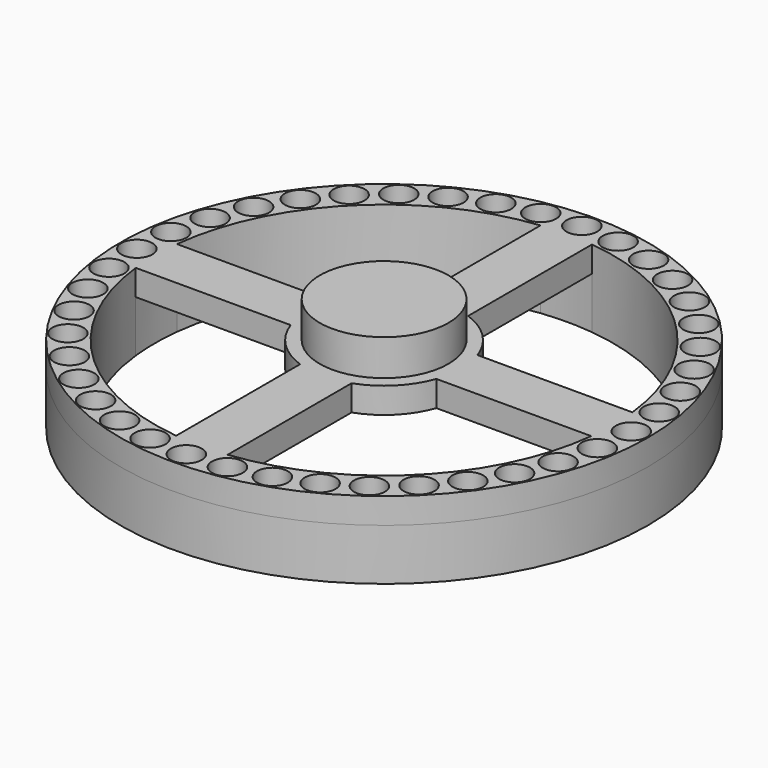
from build123d import *

# Parameters (mm, degrees)
F0_R          = 51.25
F0_R_2        = 3
F0_R_3        = 2.5
F1_DEPTH      = 10
F1_DEPTH_BACK = 5
F2_DEPTH      = 5
F3_R          = 3
F4_DEPTH      = 5
F4_DEPTH_BACK = 5
F5_R          = 12.5
F6_DEPTH      = 12
F7_R          = 10.25
F8_DEPTH      = 10


with BuildPart() as f1:
    # F0 (on Top) → F1 (new body, two sides)
    with BuildSketch(Plane.XY) as f1_sk:
        Circle(F0_R)
        with Locations((-28.21369211, -38.83281573)):
            Circle(F0_R_2, mode=Mode.SUBTRACT)
        with Locations((-38.83281573, -28.21369211)):
            Circle(F0_R_2, mode=Mode.SUBTRACT)
        with Locations((-33.941125497, -33.941125497)):
            Circle(F0_R_2, mode=Mode.SUBTRACT)
        with Locations((-14.83281573, -45.6507127822)):
            Circle(F0_R_2, mode=Mode.SUBTRACT)
        with Locations((-21.7915439875, -42.768313161)):
            Circle(F0_R_2, mode=Mode.SUBTRACT)
        with Locations((-7.5088543219, -47.4090403486)):
            Circle(F0_R_2, mode=Mode.SUBTRACT)
        with Locations((-42.768313161, -21.7915439875)):
            Circle(F0_R_2, mode=Mode.SUBTRACT)
        with Locations((-45.6507127822, -14.83281573)):
            Circle(F0_R_2, mode=Mode.SUBTRACT)
        with Locations((-47.4090403486, -7.5088543219)):
            Circle(F0_R_2, mode=Mode.SUBTRACT)
        with Locations((0, -48)):
            Circle(F0_R_2, mode=Mode.SUBTRACT)
        with Locations((7.5088543219, -47.4090403486)):
            Circle(F0_R_2, mode=Mode.SUBTRACT)
        with Locations((14.83281573, -45.6507127822)):
            Circle(F0_R_2, mode=Mode.SUBTRACT)
        with Locations((21.7915439875, -42.768313161)):
            Circle(F0_R_2, mode=Mode.SUBTRACT)
        with Locations((28.21369211, -38.83281573)):
            Circle(F0_R_2, mode=Mode.SUBTRACT)
        with Locations((33.941125497, -33.941125497)):
            Circle(F0_R_2, mode=Mode.SUBTRACT)
        with Locations((38.83281573, -28.21369211)):
            Circle(F0_R_2, mode=Mode.SUBTRACT)
        with Locations((42.768313161, -21.7915439875)):
            Circle(F0_R_2, mode=Mode.SUBTRACT)
        with Locations((45.6507127822, -14.83281573)):
            Circle(F0_R_2, mode=Mode.SUBTRACT)
        with Locations((47.4090403486, -7.5088543219)):
            Circle(F0_R_2, mode=Mode.SUBTRACT)
        with Locations((-48, 0)):
            Circle(F0_R_2, mode=Mode.SUBTRACT)
        with Locations((-47.4090403486, 7.5088543219)):
            Circle(F0_R_2, mode=Mode.SUBTRACT)
        with Locations((-45.6507127822, 14.83281573)):
            Circle(F0_R_2, mode=Mode.SUBTRACT)
        with Locations((-42.768313161, 21.7915439875)):
            Circle(F0_R_2, mode=Mode.SUBTRACT)
        with Locations((-38.83281573, 28.21369211)):
            Circle(F0_R_2, mode=Mode.SUBTRACT)
        with Locations((-33.941125497, 33.941125497)):
            Circle(F0_R_2, mode=Mode.SUBTRACT)
        with Locations((-28.21369211, 38.83281573)):
            Circle(F0_R_2, mode=Mode.SUBTRACT)
        with Locations((-21.7915439875, 42.768313161)):
            Circle(F0_R_2, mode=Mode.SUBTRACT)
        with Locations((-14.83281573, 45.6507127822)):
            Circle(F0_R_2, mode=Mode.SUBTRACT)
        with Locations((-7.5088543219, 47.4090403486)):
            Circle(F0_R_2, mode=Mode.SUBTRACT)
        with BuildLine():
            ThreePointArc((44.218208919, 5), (44.4294963785, 2.503967163), (44.5, 0))
            ThreePointArc((44.5, 0), (44.4294963785, -2.503967163), (44.218208919, -5))
            ThreePointArc((44.218208919, -5), (31.4662517628, -31.4662517628), (5, -44.218208919))
            ThreePointArc((5, -44.218208919), (0, -44.5), (-5, -44.218208919))
            ThreePointArc((-5, -44.218208919), (-31.4662517628, -31.4662517628), (-44.218208919, -5))
            ThreePointArc((-44.218208919, -5), (-44.5, 0), (-44.218208919, 5))
            ThreePointArc((-44.218208919, 5), (-31.4662517628, 31.4662517628), (-5, 44.218208919))
            ThreePointArc((-5, 44.218208919), (0, 44.5), (5, 44.218208919))
            ThreePointArc((5, 44.218208919), (31.4662517628, 31.4662517628), (44.218208919, 5))
        make_face(mode=Mode.SUBTRACT)
        with Locations((48, 0)):
            Circle(F0_R_2, mode=Mode.SUBTRACT)
        with Locations((47.4090403486, 7.5088543219)):
            Circle(F0_R_2, mode=Mode.SUBTRACT)
        with Locations((45.6507127822, 14.83281573)):
            Circle(F0_R_2, mode=Mode.SUBTRACT)
        with Locations((42.768313161, 21.7915439875)):
            Circle(F0_R_2, mode=Mode.SUBTRACT)
        with Locations((0, 48)):
            Circle(F0_R_2, mode=Mode.SUBTRACT)
        with Locations((7.5088543219, 47.4090403486)):
            Circle(F0_R_2, mode=Mode.SUBTRACT)
        with Locations((21.7915439875, 42.768313161)):
            Circle(F0_R_2, mode=Mode.SUBTRACT)
        with Locations((14.83281573, 45.6507127822)):
            Circle(F0_R_2, mode=Mode.SUBTRACT)
        with Locations((33.941125497, 33.941125497)):
            Circle(F0_R_2, mode=Mode.SUBTRACT)
        with Locations((38.83281573, 28.21369211)):
            Circle(F0_R_2, mode=Mode.SUBTRACT)
        with Locations((28.21369211, 38.83281573)):
            Circle(F0_R_2, mode=Mode.SUBTRACT)
        with Locations((0, 48)):
            Circle(F0_R_2)
        with Locations((0, 48)):
            Circle(F0_R_3, mode=Mode.SUBTRACT)
        with Locations((21.7915439875, 42.768313161)):
            Circle(F0_R_2)
        with Locations((21.7915443935, 42.7683148523)):
            Circle(F0_R_3, mode=Mode.SUBTRACT)
        with Locations((14.83281573, 45.6507127822)):
            Circle(F0_R_2)
        with Locations((14.8328159123, 45.6507139333)):
            Circle(F0_R_3, mode=Mode.SUBTRACT)
        with Locations((7.5088543219, 47.4090403486)):
            Circle(F0_R_2)
        with Locations((7.5088543678, 47.4090409313)):
            Circle(F0_R_3, mode=Mode.SUBTRACT)
        with Locations((33.941125497, 33.941125497)):
            Circle(F0_R_2)
        with Locations((33.9411265881, 33.9411281311)):
            Circle(F0_R_3, mode=Mode.SUBTRACT)
        with Locations((38.83281573, 28.21369211)):
            Circle(F0_R_2)
        with Locations((38.8328172656, 28.2136951239)):
            Circle(F0_R_3, mode=Mode.SUBTRACT)
        with Locations((42.768313161, 21.7915439875)):
            Circle(F0_R_2)
        with Locations((42.7683151951, 21.7915473068)):
            Circle(F0_R_3, mode=Mode.SUBTRACT)
        with Locations((45.6507127822, 14.83281573)):
            Circle(F0_R_2)
        with Locations((45.6507153563, 14.832819273)):
            Circle(F0_R_3, mode=Mode.SUBTRACT)
        with Locations((47.4090403486, 7.5088543219)):
            Circle(F0_R_2)
        with Locations((47.4090434911, 7.5088580014)):
            Circle(F0_R_3, mode=Mode.SUBTRACT)
        with Locations((48, 0)):
            Circle(F0_R_2)
        with Locations((48.0000037253, 3.7253e-06)):
            Circle(F0_R_3, mode=Mode.SUBTRACT)
        with Locations((47.4090403486, -7.5088543219)):
            Circle(F0_R_2)
        with Locations((47.4090446566, -7.5088506425)):
            Circle(F0_R_3, mode=Mode.SUBTRACT)
        with Locations((38.83281573, -28.21369211)):
            Circle(F0_R_2)
        with Locations((38.832821645, -28.2136890962)):
            Circle(F0_R_3, mode=Mode.SUBTRACT)
        with Locations((28.21369211, -38.83281573)):
            Circle(F0_R_2)
        with Locations((28.2136988492, -38.8328135403)):
            Circle(F0_R_3, mode=Mode.SUBTRACT)
        with Locations((21.7915439875, -42.768313161)):
            Circle(F0_R_2)
        with Locations((21.791551032, -42.7683114698)):
            Circle(F0_R_3, mode=Mode.SUBTRACT)
        with Locations((14.83281573, -45.6507127822)):
            Circle(F0_R_2)
        with Locations((14.8328229982, -45.650711631)):
            Circle(F0_R_3, mode=Mode.SUBTRACT)
        with Locations((0, -48)):
            Circle(F0_R_2)
        with Locations((7.4506e-06, -48)):
            Circle(F0_R_3, mode=Mode.SUBTRACT)
        with Locations((7.5088543219, -47.4090403486)):
            Circle(F0_R_2)
        with Locations((7.5088617266, -47.4090397658)):
            Circle(F0_R_3, mode=Mode.SUBTRACT)
        with Locations((-14.83281573, -45.6507127822)):
            Circle(F0_R_2)
        with Locations((-14.8328084617, -45.6507139333)):
            Circle(F0_R_3, mode=Mode.SUBTRACT)
        with Locations((-21.7915439875, -42.768313161)):
            Circle(F0_R_2)
        with Locations((-21.7915369429, -42.7683148523)):
            Circle(F0_R_3, mode=Mode.SUBTRACT)
        with Locations((-28.21369211, -38.83281573)):
            Circle(F0_R_2)
        with Locations((-28.2136853709, -38.8328179197)):
            Circle(F0_R_3, mode=Mode.SUBTRACT)
        with Locations((-33.941125497, -33.941125497)):
            Circle(F0_R_2)
        with Locations((-33.9411191375, -33.9411281311)):
            Circle(F0_R_3, mode=Mode.SUBTRACT)
        with Locations((-38.83281573, -28.21369211)):
            Circle(F0_R_2)
        with Locations((-38.832809815, -28.2136951239)):
            Circle(F0_R_3, mode=Mode.SUBTRACT)
        with Locations((-42.768313161, -21.7915439875)):
            Circle(F0_R_2)
        with Locations((-42.7683077445, -21.7915473068)):
            Circle(F0_R_3, mode=Mode.SUBTRACT)
        with Locations((-45.6507127822, -14.83281573)):
            Circle(F0_R_2)
        with Locations((-45.6507079057, -14.832819273)):
            Circle(F0_R_3, mode=Mode.SUBTRACT)
        with Locations((-47.4090403486, -7.5088543219)):
            Circle(F0_R_2)
        with Locations((-47.4090360405, -7.5088580014)):
            Circle(F0_R_3, mode=Mode.SUBTRACT)
        with Locations((-47.4090403486, 7.5088543219)):
            Circle(F0_R_2)
        with Locations((-47.409037206, 7.5088506425)):
            Circle(F0_R_3, mode=Mode.SUBTRACT)
        with Locations((-42.768313161, 21.7915439875)):
            Circle(F0_R_2)
        with Locations((-42.768311127, 21.7915406682)):
            Circle(F0_R_3, mode=Mode.SUBTRACT)
        with Locations((-21.7915439875, 42.768313161)):
            Circle(F0_R_2)
        with Locations((-21.7915435815, 42.7683114698)):
            Circle(F0_R_3, mode=Mode.SUBTRACT)
        with Locations((-14.83281573, 45.6507127822)):
            Circle(F0_R_2)
        with Locations((-14.8328155477, 45.650711631)):
            Circle(F0_R_3, mode=Mode.SUBTRACT)
        with Locations((-7.5088543219, 47.4090403486)):
            Circle(F0_R_2)
        with Locations((-7.5088542761, 47.4090397658)):
            Circle(F0_R_3, mode=Mode.SUBTRACT)
        with Locations((-38.83281573, 28.21369211)):
            Circle(F0_R_2)
        with Locations((-38.8328141944, 28.2136890962)):
            Circle(F0_R_3, mode=Mode.SUBTRACT)
        with Locations((-33.941125497, 33.941125497)):
            Circle(F0_R_2)
        with Locations((-33.9411244058, 33.9411228628)):
            Circle(F0_R_3, mode=Mode.SUBTRACT)
        with Locations((-28.21369211, 38.83281573)):
            Circle(F0_R_2)
        with Locations((-28.2136913986, 38.8328135403)):
            Circle(F0_R_3, mode=Mode.SUBTRACT)
        with Locations((-48, 0)):
            Circle(F0_R_2)
        with Locations((-47.9999962747, -3.7253e-06)):
            Circle(F0_R_3, mode=Mode.SUBTRACT)
        with Locations((-45.6507127822, 14.83281573)):
            Circle(F0_R_2)
        with Locations((-45.6507102081, 14.832812187)):
            Circle(F0_R_3, mode=Mode.SUBTRACT)
        with Locations((33.941125497, -33.941125497)):
            Circle(F0_R_2)
        with Locations((33.9411318564, -33.9411228628)):
            Circle(F0_R_3, mode=Mode.SUBTRACT)
        with Locations((45.6507127822, -14.83281573)):
            Circle(F0_R_2)
        with Locations((45.6507176586, -14.832812187)):
            Circle(F0_R_3, mode=Mode.SUBTRACT)
        with Locations((42.768313161, -21.7915439875)):
            Circle(F0_R_2)
        with Locations((42.7683185776, -21.7915406682)):
            Circle(F0_R_3, mode=Mode.SUBTRACT)
        with Locations((28.21369211, 38.83281573)):
            Circle(F0_R_2)
        with Locations((28.2136928215, 38.8328179197)):
            Circle(F0_R_3, mode=Mode.SUBTRACT)
    extrude(amount=-F1_DEPTH)
    extrude(f1_sk.sketch, amount=F1_DEPTH_BACK)

    # F0 (on Top) → F2 (join)
    with BuildSketch(Plane.XY):
        with BuildLine():
            Line((5, 14.1421356237), (5, 44.218208919))
            ThreePointArc((5, 44.218208919), (0, 44.5), (-5, 44.218208919))
            Line((-5, 44.218208919), (-5, 14.1421356237))
            ThreePointArc((-5, 14.1421356237), (0, 15), (5, 14.1421356237))
        make_face()
        with BuildLine():
            ThreePointArc((15, 0), (14.7839783948, 2.5365296809), (14.1421356237, 5))
            ThreePointArc((14.1421356237, 5), (10.6066017178, 10.6066017178), (5, 14.1421356237))
            ThreePointArc((5, 14.1421356237), (0, 15), (-5, 14.1421356237))
            ThreePointArc((-5, 14.1421356237), (-10.6066017178, 10.6066017178), (-14.1421356237, 5))
            ThreePointArc((-14.1421356237, 5), (-15, 0), (-14.1421356237, -5))
            ThreePointArc((-14.1421356237, -5), (-10.6066017178, -10.6066017178), (-5, -14.1421356237))
            ThreePointArc((-5, -14.1421356237), (0, -15), (5, -14.1421356237))
            ThreePointArc((5, -14.1421356237), (10.6066017178, -10.6066017178), (14.1421356237, -5))
            ThreePointArc((14.1421356237, -5), (14.7839783948, -2.5365296809), (15, 0))
        make_face()
        with BuildLine():
            ThreePointArc((-5, -44.218208919), (0, -44.5), (5, -44.218208919))
            Line((5, -44.218208919), (5, -14.1421356237))
            ThreePointArc((5, -14.1421356237), (0, -15), (-5, -14.1421356237))
            Line((-5, -14.1421356237), (-5, -44.218208919))
        make_face()
        with BuildLine():
            Line((-14.1421356237, 5), (-44.218208919, 5))
            ThreePointArc((-44.218208919, 5), (-44.5, 0), (-44.218208919, -5))
            Line((-44.218208919, -5), (-14.1421356237, -5))
            ThreePointArc((-14.1421356237, -5), (-15, 0), (-14.1421356237, 5))
        make_face()
        with BuildLine():
            ThreePointArc((44.218208919, -5), (44.4294963785, -2.503967163), (44.5, 0))
            ThreePointArc((44.5, 0), (44.4294963785, 2.503967163), (44.218208919, 5))
            Line((44.218208919, 5), (14.1421356237, 5))
            ThreePointArc((14.1421356237, 5), (14.7839783948, 2.5365296809), (15, 0))
            ThreePointArc((15, 0), (14.7839783948, -2.5365296809), (14.1421356237, -5))
            Line((14.1421356237, -5), (44.218208919, -5))
        make_face()
    extrude(amount=F2_DEPTH)

    # F3 (on Top) → F4 (cut, two sides)
    with BuildSketch(Plane.XY) as f4_sk:
        with Locations((0, 48)):
            Circle(F3_R)
        with Locations((-7.5088543219, 47.4090403486)):
            Circle(F3_R)
        with Locations((-14.83281573, 45.6507127822)):
            Circle(F3_R)
        with Locations((-21.7915439875, 42.768313161)):
            Circle(F3_R)
        with Locations((-28.21369211, 38.83281573)):
            Circle(F3_R)
        with Locations((-33.941125497, 33.941125497)):
            Circle(F3_R)
        with Locations((-38.83281573, 28.21369211)):
            Circle(F3_R)
        with Locations((-42.768313161, 21.7915439875)):
            Circle(F3_R)
        with Locations((-45.6507127822, 14.83281573)):
            Circle(F3_R)
        with Locations((-47.4090403486, 7.5088543219)):
            Circle(F3_R)
        with Locations((-48, 0)):
            Circle(F3_R)
        with Locations((-47.4090403486, -7.5088543219)):
            Circle(F3_R)
        with Locations((-45.6507127822, -14.83281573)):
            Circle(F3_R)
        with Locations((-42.768313161, -21.7915439875)):
            Circle(F3_R)
        with Locations((-38.83281573, -28.21369211)):
            Circle(F3_R)
        with Locations((-33.941125497, -33.941125497)):
            Circle(F3_R)
        with Locations((-28.21369211, -38.83281573)):
            Circle(F3_R)
        with Locations((-21.7915439875, -42.768313161)):
            Circle(F3_R)
        with Locations((-14.83281573, -45.6507127822)):
            Circle(F3_R)
        with Locations((-7.5088543219, -47.4090403486)):
            Circle(F3_R)
        with Locations((0, -48)):
            Circle(F3_R)
        with Locations((7.5088543219, -47.4090403486)):
            Circle(F3_R)
        with Locations((14.83281573, -45.6507127822)):
            Circle(F3_R)
        with Locations((21.7915439875, -42.768313161)):
            Circle(F3_R)
        with Locations((28.21369211, -38.83281573)):
            Circle(F3_R)
        with Locations((33.941125497, -33.941125497)):
            Circle(F3_R)
        with Locations((38.83281573, -28.21369211)):
            Circle(F3_R)
        with Locations((42.768313161, -21.7915439875)):
            Circle(F3_R)
        with Locations((45.6507127822, -14.83281573)):
            Circle(F3_R)
        with Locations((47.4090403486, -7.5088543219)):
            Circle(F3_R)
        with Locations((48, 0)):
            Circle(F3_R)
        with Locations((47.4090403486, 7.5088543219)):
            Circle(F3_R)
        with Locations((45.6507127822, 14.83281573)):
            Circle(F3_R)
        with Locations((42.768313161, 21.7915439875)):
            Circle(F3_R)
        with Locations((38.83281573, 28.21369211)):
            Circle(F3_R)
        with Locations((33.941125497, 33.941125497)):
            Circle(F3_R)
        with Locations((28.21369211, 38.83281573)):
            Circle(F3_R)
        with Locations((21.7915439875, 42.768313161)):
            Circle(F3_R)
        with Locations((14.83281573, 45.6507127822)):
            Circle(F3_R)
        with Locations((7.5088543219, 47.4090403486)):
            Circle(F3_R)
    extrude(amount=F4_DEPTH, mode=Mode.SUBTRACT)
    extrude(f4_sk.sketch, amount=-F4_DEPTH_BACK, mode=Mode.SUBTRACT)

    # F5 (on face) → F6 (join)
    with BuildSketch(Plane.XY):
        Circle(F5_R)
    extrude(amount=F6_DEPTH)

    # F7 (on face) → F8 (cut)
    with BuildSketch(Plane.XY):
        Circle(F7_R)
    extrude(amount=F8_DEPTH, mode=Mode.SUBTRACT)


solid = f1.part
